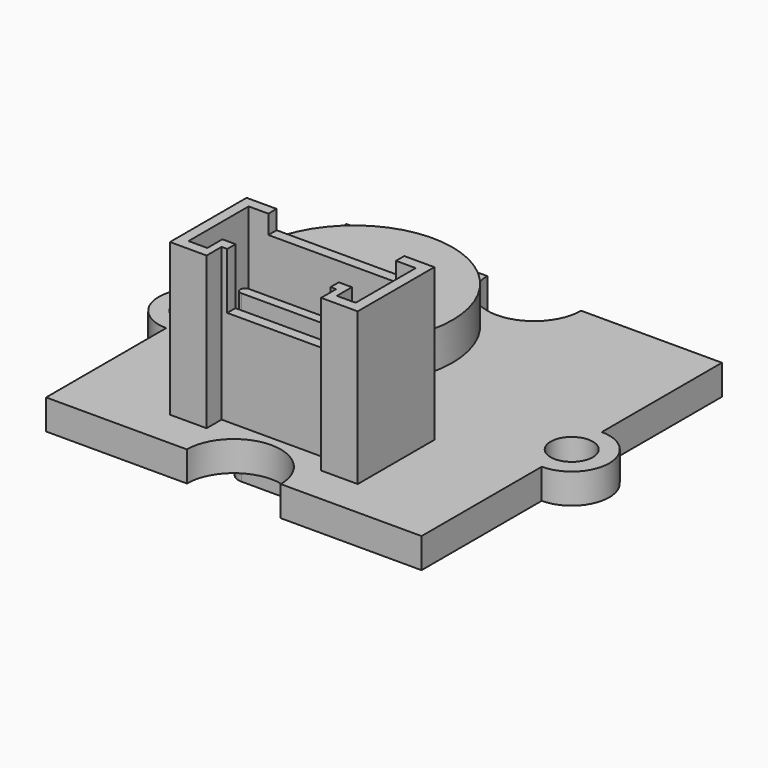
from build123d import *

# Parameters (mm, degrees)
PAD_DEPTH       = 1.6
SKETCH001_R     = 1.125
POCKET_DEPTH    = 1.601
PAD005_DEPTH    = 8.1
POCKET003_DEPTH = 7
SKETCH010_W     = 6.8
SKETCH010_H     = 5
POCKET004_DEPTH = 1
SKETCH011_W     = 5.5
SKETCH011_H     = 3
POCKET005_DEPTH = 3
PAD006_DEPTH    = 4
PAD007_DEPTH    = 3.4
SKETCH014_R     = 5.25
PAD008_DEPTH    = 2


with BuildPart() as obj1:
    # Sketch → Pad (new body)
    with BuildSketch(Plane.XY):
        with BuildLine():
            Line((-10, 10), (-2.5, 10))
            ThreePointArc((-2.5, 10), (0, 7.5), (2.5, 10))
            Line((2.5, 10), (10, 10))
            Line((10, 10), (10, 2))
            ThreePointArc((10, -2), (12, 0), (10, 2))
            Line((10, -2), (10, -10))
            Line((10, -10), (2.5, -10))
            ThreePointArc((2.5, -10), (0, -7.5), (-2.5, -10))
            Line((-2.5, -10), (-10, -10))
            Line((-10, -10), (-10, -2))
            ThreePointArc((-10, 2), (-12, 0), (-10, -2))
            Line((-10, 10), (-10, 2))
        make_face()
    extrude(amount=PAD_DEPTH)

    # Sketch001 → Pocket (cut, through all)
    with BuildSketch(Plane.XY):
        with Locations((-10, 0)):
            Circle(SKETCH001_R)
        with Locations((10, 0)):
            Circle(SKETCH001_R)
    extrude(amount=POCKET_DEPTH, mode=Mode.SUBTRACT)


with BuildPart() as obj2:
    # Sketch008 → Pad005 (new body)
    with BuildSketch(Plane.XY):
        Polygon((-5, 0), (-3.05, 0), (-3.05, 1), (3.05, 1), (3.05, 0), (5, 0), (5, 5.1), (-5, 5.1), align=None)
    extrude(amount=PAD005_DEPTH)

    # Sketch009 (on Face10 of Pad005) → Pocket003 (cut)
    with BuildSketch(Plane.XY.offset(8.1)):
        Polygon((-4.45, 0.55), (-3.45, 0.55), (-3.45, 1.55), (3.45, 1.55), (3.45, 0.55), (4.45, 0.55), (4.45, 4.55), (-4.45, 4.55), align=None)
    extrude(amount=-POCKET003_DEPTH, mode=Mode.SUBTRACT)

    # Sketch010 (on Face5 of Pocket003) → Pocket004 (cut)
    with BuildSketch(Plane.XY.offset(8.1)):
        with Locations((0, 5.5)):
            Rectangle(SKETCH010_W, SKETCH010_H)
    extrude(amount=-POCKET004_DEPTH, mode=Mode.SUBTRACT)

    # Sketch011 (on Face5 of Pocket004) → Pocket005 (cut)
    with BuildSketch(Plane.XY.offset(8.1)):
        with Locations((0, 1.5)):
            Rectangle(SKETCH011_W, SKETCH011_H)
    extrude(amount=-POCKET005_DEPTH, mode=Mode.SUBTRACT)

    # Sketch012 (on Face26 of Pocket005) → Pad006 (join)
    with BuildSketch(Plane.XY.offset(1.1)):
        with BuildLine():
            ThreePointArc((-3.4, 3.25), (-3.65, 3), (-3.4, 2.75))
            Line((-3.4, 2.75), (3.4, 2.75))
            ThreePointArc((3.4, 2.75), (3.65, 3), (3.4, 3.25))
            Line((-3.4, 3.25), (3.4, 3.25))
        make_face()
    extrude(amount=PAD006_DEPTH)

    # Sketch013 → Pad007 (join)
    with BuildSketch(Plane.XY):
        with BuildLine():
            ThreePointArc((-3, 3.75), (-3.75, 3), (-3, 2.25))
            Line((-3, 2.25), (3, 2.25))
            ThreePointArc((3, 2.25), (3.75, 3), (3, 3.75))
            Line((-3, 3.75), (3, 3.75))
        make_face()
    extrude(amount=-PAD007_DEPTH)


with BuildPart() as obj2_1:
    # Body005 placement: moved
    add(obj2.part.moved(Location((0, -8, 1.6))))


with BuildPart() as obj3:
    # Sketch014 → Pad008 (new body)
    with BuildSketch(Plane.XY):
        Circle(SKETCH014_R)
    extrude(amount=PAD008_DEPTH)


with BuildPart() as obj3_1:
    # Body006 placement: moved
    add(obj3.part.moved(Location((-4, 3, 1.6))))


solid = Compound([obj1.part, obj2_1.part, obj3_1.part])
